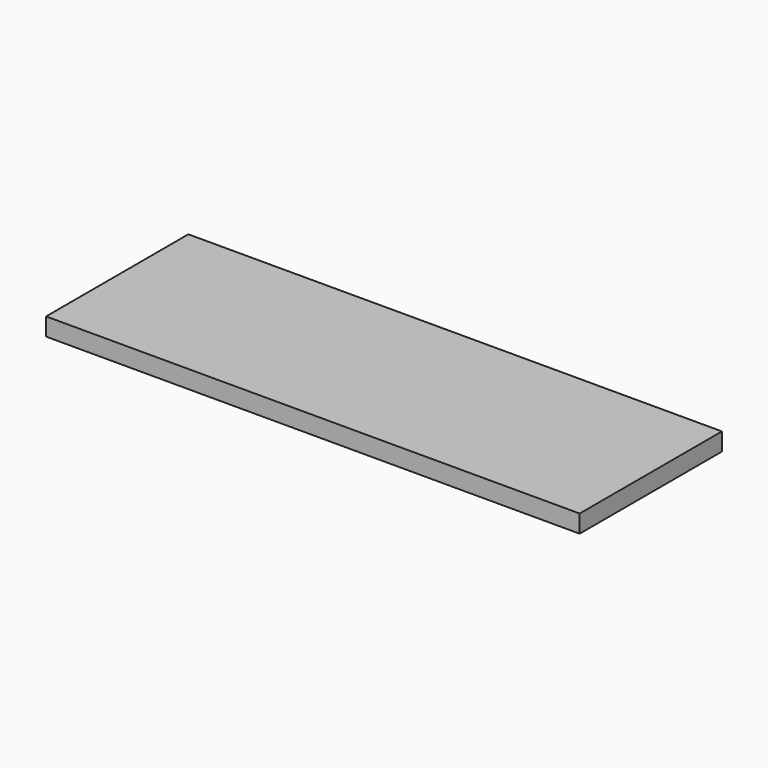
from build123d import *

# Parameters (mm, degrees)
SKETCH_W  = 60
SKETCH_H  = 20
PAD_DEPTH = 2


with BuildPart() as part:
    # Sketch → Pad (new body)
    with BuildSketch(Plane.XY):
        with Locations((4.9767, 3.930963)):
            Rectangle(SKETCH_W, SKETCH_H)
    extrude(amount=PAD_DEPTH)


solid = part.part
